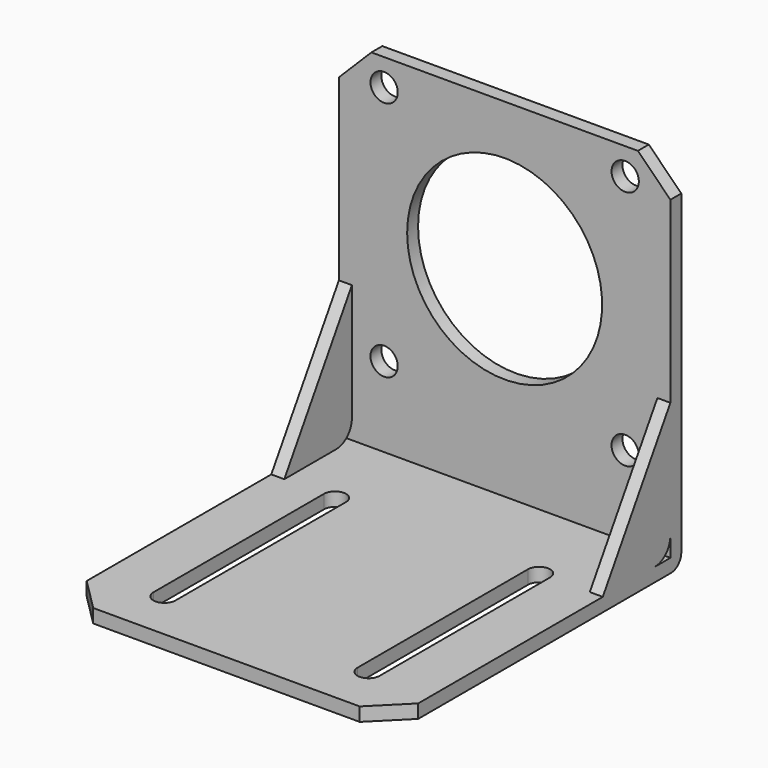
from build123d import *

# Parameters (mm, degrees)
F1_DEPTH = 64.77
F4_DEPTH = 2.54
F5_DEPTH = 2.54
F6_R     = 2.667
F6_R_2   = 19.05
F7_DEPTH = 70.613
F9_DEPTH = 70.613


with BuildPart() as f1:
    # F0 (on Right) → F1 (new body)
    with BuildSketch(Plane.YZ):
        with BuildLine():
            Line((-58.708991, 56.24623), (-61.375991, 56.24623))
            Line((-61.375991, 56.24623), (-61.375991, -11.69877))
            Line((-61.375991, -11.69877), (-129.320991, -11.69877))
            Line((-129.320991, -11.69877), (-129.320991, -14.36577))
            Line((-129.320991, -14.36577), (-61.248991, -14.36577))
            ThreePointArc((-61.248991, -14.36577), (-59.45294, -13.621821), (-58.708991, -11.82577))
            Line((-58.708991, -11.82577), (-58.708991, 56.24623))
        make_face()
    extrude(amount=F1_DEPTH)

    # F3 (on face) → F4 (join)
    with BuildSketch(Plane(origin=(0, 0, 0), x_dir=(0, -1, 0), z_dir=(-1, 0, 0))):
        with BuildLine():
            Line((77.885991, -11.69877), (61.375991, 14.97123))
            Line((61.375991, 14.97123), (61.375991, -7.88877))
            ThreePointArc((61.375991, -7.88877), (62.491914, -10.582847), (65.185991, -11.69877))
            Line((65.185991, -11.69877), (77.885991, -11.69877))
        make_face()
    extrude(amount=-F4_DEPTH)

    # F2 (on face) → F5 (join)
    with BuildSketch(Plane.YZ.offset(64.77)):
        with BuildLine():
            Line((-61.375991, -7.88877), (-61.375991, 14.97123))
            Line((-61.375991, 14.97123), (-77.885991, -11.69877))
            Line((-77.885991, -11.69877), (-65.185991, -11.69877))
            ThreePointArc((-65.185991, -11.69877), (-62.491914, -10.582847), (-61.375991, -7.88877))
        make_face()
    extrude(amount=-F5_DEPTH)

    # F6 (on face) → F7 (cut, through all)
    with BuildSketch(Plane(origin=(0, -58.708991, 0), x_dir=(-1, 0, 0), z_dir=(0, 1, 0))):
        Polygon((-64.77, 56.24623), (-64.77, 49.89623), (-58.42, 56.24623), align=None)
        with Locations((-55.935, 51.03923)):
            Circle(F6_R)
        with Locations((-8.835, 51.03923)):
            Circle(F6_R)
        Polygon((0, 56.24623), (-6.35, 56.24623), (0, 49.89623), align=None)
        with Locations((-32.385, 27.48923)):
            Circle(F6_R_2)
        with Locations((-55.935, 3.93923)):
            Circle(F6_R)
        with Locations((-8.835, 3.93923)):
            Circle(F6_R)
    extrude(amount=-F7_DEPTH, mode=Mode.SUBTRACT)

    # F8 (on face) → F9 (cut, through all)
    with BuildSketch(Plane(origin=(0, 0, -14.36577), x_dir=(1, 0, 0), z_dir=(0, 0, -1))):
        Polygon((0, 129.320991), (0, 122.970991), (6.35, 129.320991), align=None)
        with BuildLine():
            Line((14.605, 77.885991), (14.605, 119.541991))
            ThreePointArc((14.605, 119.541991), (12.446, 121.700991), (10.287, 119.541991))
            Line((10.287, 119.541991), (10.287, 77.885991))
            ThreePointArc((10.287, 77.885991), (12.446, 75.726991), (14.605, 77.885991))
        make_face()
        with BuildLine():
            Line((54.483, 77.885991), (54.483, 119.541991))
            ThreePointArc((54.483, 119.541991), (52.324, 121.700991), (50.165, 119.541991))
            Line((50.165, 119.541991), (50.165, 77.885991))
            ThreePointArc((50.165, 77.885991), (52.324, 75.726991), (54.483, 77.885991))
        make_face()
        Polygon((64.77, 129.320991), (58.42, 129.320991), (64.77, 122.970991), align=None)
    extrude(amount=-F9_DEPTH, mode=Mode.SUBTRACT)


solid = f1.part
